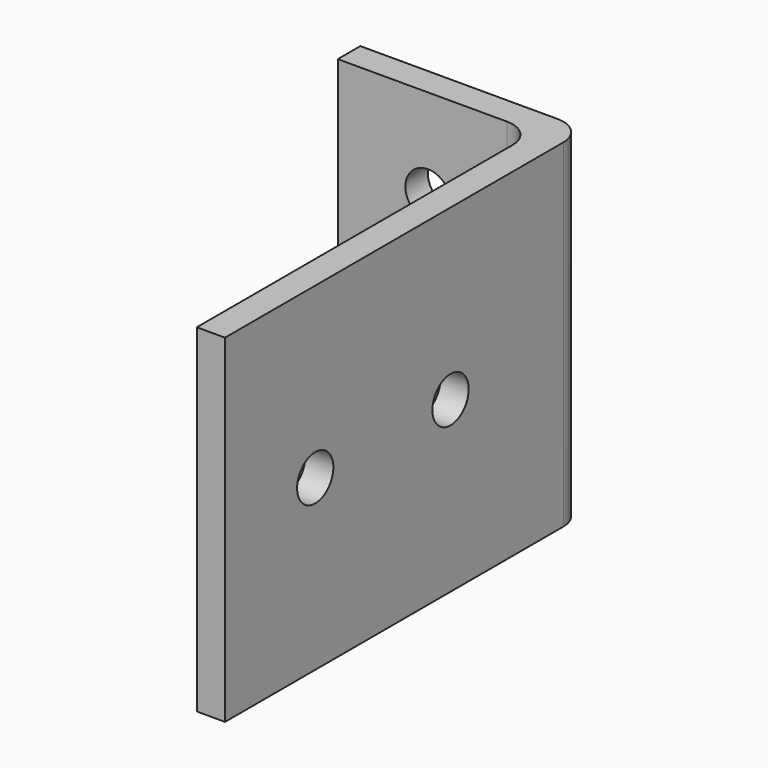
from build123d import *

# Parameters (mm, degrees)
F0_W     = 22.225
F0_H     = 38.1
F0_W_2   = 3.175
F1_DEPTH = 3.175
F2_D     = 5.1054
F3_DEPTH = 50.8
F4_R     = 3.175
F6_D     = 5.1054


with BuildPart() as f1:
    # F0 (on Front) → F1 (new body)
    with BuildSketch(Plane.XZ):
        with Locations((-0.7963004947, 15.9530722331)):
            Rectangle(F0_W, F0_H)
        with Locations((11.9036995053, 15.9530722331)):
            Rectangle(F0_W_2, F0_H)
    extrude(amount=F1_DEPTH)

    # F2 (through all)
    with Locations(Plane(origin=(0, 0, 0), x_dir=(1, 0, 0), z_dir=(0, 1, 0))):
        with Locations((-1.7488004947, -24.8430722331), (-1.7488004947, -7.0630722331)):
            Hole(F2_D / 2)

    # F0 (on Front) → F3 (join)
    with BuildSketch(Plane.XZ):
        with Locations((11.9036995053, 15.9530722331)):
            Rectangle(F0_W_2, F0_H)
    extrude(amount=F3_DEPTH)

    # F4
    f4_edges = [f1.edges().sort_by_distance(p)[0] for p in [
        (10.3162, -3.175, 15.953072),
        (13.4912, 0, 15.953072),
    ]]
    fillet(f4_edges, radius=F4_R)

    # F6 (through all)
    with Locations(Plane(origin=(10.3161995053, 0, 0), x_dir=(0, -1, 0), z_dir=(-1, 0, 0))):
        with Locations((19.05, 15.9530722331), (38.1, 15.9530722331)):
            Hole(F6_D / 2)


solid = f1.part
